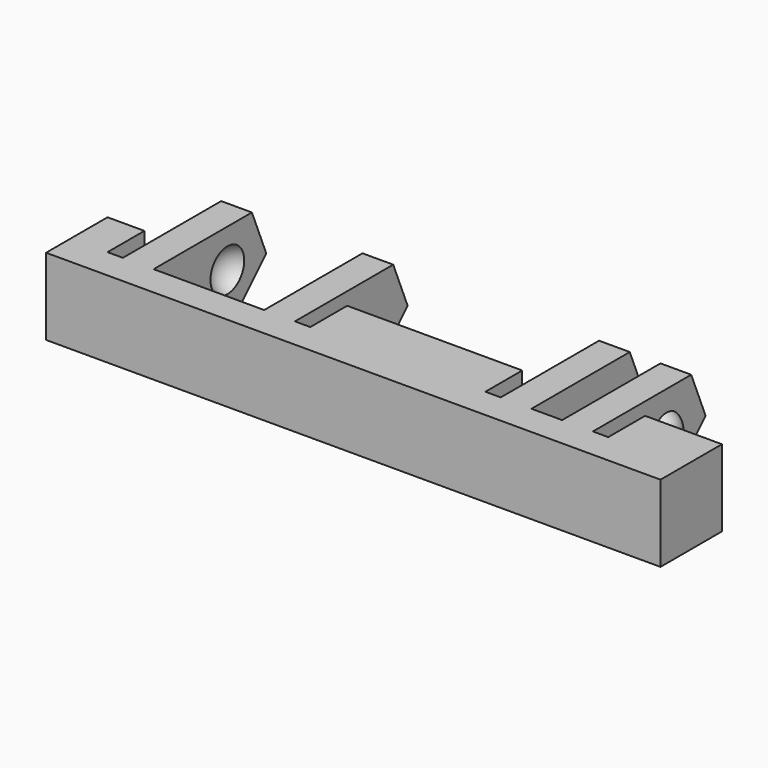
from build123d import *

# Parameters (mm, degrees)
BOX043_W               = 12
BOX043_H               = 44
BOX043_DEPTH           = 10
BOX045_W               = 4
BOX045_H               = 1
BOX045_DEPTH           = 7
BOX047_W               = 4
BOX047_H               = 1
BOX047_DEPTH           = 7
BOX041_W               = 4
BOX041_H               = 2
BOX041_DEPTH           = 7
BOX048_W               = 4
BOX048_H               = 1
BOX048_DEPTH           = 7
BOX044_W               = 4
BOX044_H               = 1
BOX044_DEPTH           = 7
BOX052_W               = 4
BOX052_H               = 7.2
BOX052_DEPTH           = 7
BOX050_W               = 13
BOX050_H               = 40
BOX050_DEPTH           = 10
BOX050_PLACEMENT_ANGLE = 45
BOX040_W               = 10
BOX040_H               = 2
BOX040_DEPTH           = 7
BOX042_W               = 10
BOX042_H               = 2
BOX042_DEPTH           = 7
BOX049_W               = 10
BOX049_H               = 2
BOX049_DEPTH           = 7
BOX051_W               = 10
BOX051_H               = 2
BOX051_DEPTH           = 7
BOX046_W               = 5
BOX046_H               = 40
BOX046_DEPTH           = 7
CHAMFER004_SIZE        = 4
CUT016_PLACEMENT_ANGLE = 180
CUT015_PLACEMENT_ANGLE = 90


with BuildPart() as cube043:
    # Box043 → Box043 (new body)
    with BuildSketch(Plane(origin=(-11, -2, -12), x_dir=(1, 0, 0), z_dir=(0, 0, 1))):
        with Locations((6, 22)):
            Rectangle(BOX043_W, BOX043_H)
    extrude(amount=BOX043_DEPTH)


with BuildPart() as cube045:
    # Box045 → Box045 (new body)
    with BuildSketch(Plane(origin=(-1, 12, 0), x_dir=(1, 0, 0), z_dir=(0, 0, 1))):
        with Locations((2, 0.5)):
            Rectangle(BOX045_W, BOX045_H)
    extrude(amount=BOX045_DEPTH)


with BuildPart() as cube047:
    # Box047 → Box047 (new body)
    with BuildSketch(Plane(origin=(-1, 36.6, 0), x_dir=(1, 0, 0), z_dir=(0, 0, 1))):
        with Locations((2, 0.5)):
            Rectangle(BOX047_W, BOX047_H)
    extrude(amount=BOX047_DEPTH)


with BuildPart() as cube041:
    # Box041 → Box041 (new body)
    with BuildSketch(Plane(origin=(-1, 8, 0), x_dir=(1, 0, 0), z_dir=(0, 0, 1))):
        with Locations((2, 1)):
            Rectangle(BOX041_W, BOX041_H)
    extrude(amount=BOX041_DEPTH)


with BuildPart() as cube048:
    # Box048 → Box048 (new body)
    with BuildSketch(Plane(origin=(-1, 24.4, 0), x_dir=(1, 0, 0), z_dir=(0, 0, 1))):
        with Locations((2, 0.5)):
            Rectangle(BOX048_W, BOX048_H)
    extrude(amount=BOX048_DEPTH)


with BuildPart() as cube044:
    # Box044 → Box044 (new body)
    with BuildSketch(Plane(origin=(-1, 5, 0), x_dir=(1, 0, 0), z_dir=(0, 0, 1))):
        with Locations((2, 0.5)):
            Rectangle(BOX044_W, BOX044_H)
    extrude(amount=BOX044_DEPTH)


with BuildPart() as fusion014:
    # Box052 → Box052 (new body)
    with BuildSketch(Plane(origin=(-1, 27.4, 0), x_dir=(1, 0, 0), z_dir=(0, 0, 1))):
        with Locations((2, 3.6)):
            Rectangle(BOX052_W, BOX052_H)
    extrude(amount=BOX052_DEPTH)

    # Fusion014: union Cube045, Cube047, Cube041, Cube048, Cube044
    add(cube045.part)
    add(cube047.part)
    add(cube041.part)
    add(cube048.part)
    add(cube044.part)


with BuildPart() as sphere021:
    # Sphere021 → Sphere021 (revolve)
    with BuildSketch(Plane(origin=(-3, 28, 2.5), x_dir=(1, 0, 0), z_dir=(0, -1, 0))):
        with BuildLine():
            ThreePointArc((0, -1.5), (1.5, 0), (0, 1.5))
            Line((0, 1.5), (0, -1.5))
        make_face()
    revolve(axis=Axis((-3, 28, 2.5), (0, 0, 1)))


with BuildPart() as fusion016:
    # Sphere023 → Sphere023 (revolve)
    with BuildSketch(Plane(origin=(-3, 34, 2.5), x_dir=(1, 0, 0), z_dir=(0, -1, 0))):
        with BuildLine():
            ThreePointArc((0, -1.5), (1.5, 0), (0, 1.5))
            Line((0, 1.5), (0, -1.5))
        make_face()
    revolve(axis=Axis((-3, 34, 2.5), (0, 0, 1)))

    # Fusion016: union Sphere021
    add(sphere021.part)


with BuildPart() as sphere020:
    # Sphere020 → Sphere020 (revolve)
    with BuildSketch(Plane(origin=(-3, 11.5, 2.5), x_dir=(1, 0, 0), z_dir=(0, -1, 0))):
        with BuildLine():
            ThreePointArc((0, -1.25), (1.25, 0), (0, 1.25))
            Line((0, 1.25), (0, -1.25))
        make_face()
    revolve(axis=Axis((-3, 11.5, 2.5), (0, 0, 1)))


with BuildPart() as cube050:
    # Box050 → Box050 (new body)
    with BuildSketch(Plane.XY):
        with Locations((6.5, 20)):
            Rectangle(BOX050_W, BOX050_H)
    extrude(amount=BOX050_DEPTH)


with BuildPart() as cube050_1:
    # Box050 placement: moved
    add(cube050.part.moved(Location((-10.19, 0, -1.19))).rotate(Axis((-10.19, 0, -1.19), (0, -1, 0)), BOX050_PLACEMENT_ANGLE))


with BuildPart() as cube040:
    # Box040 → Box040 (new body)
    with BuildSketch(Plane(origin=(-10, 6, 0), x_dir=(1, 0, 0), z_dir=(0, 0, 1))):
        with Locations((5, 1)):
            Rectangle(BOX040_W, BOX040_H)
    extrude(amount=BOX040_DEPTH)


with BuildPart() as cube042:
    # Box042 → Box042 (new body)
    with BuildSketch(Plane(origin=(-10, 10, 0), x_dir=(1, 0, 0), z_dir=(0, 0, 1))):
        with Locations((5, 1)):
            Rectangle(BOX042_W, BOX042_H)
    extrude(amount=BOX042_DEPTH)


with BuildPart() as cube049:
    # Box049 → Box049 (new body)
    with BuildSketch(Plane(origin=(-10, 25.4, 0), x_dir=(1, 0, 0), z_dir=(0, 0, 1))):
        with Locations((5, 1)):
            Rectangle(BOX049_W, BOX049_H)
    extrude(amount=BOX049_DEPTH)


with BuildPart() as cube051:
    # Box051 → Box051 (new body)
    with BuildSketch(Plane(origin=(-10, 34.6, 0), x_dir=(1, 0, 0), z_dir=(0, 0, 1))):
        with Locations((5, 1)):
            Rectangle(BOX051_W, BOX051_H)
    extrude(amount=BOX051_DEPTH)


with BuildPart() as cut013:
    # Box046 → Box046 (new body)
    with BuildSketch(Plane.XY):
        with Locations((2.5, 20)):
            Rectangle(BOX046_W, BOX046_H)
    extrude(amount=BOX046_DEPTH)

    # Fusion015: union Cube040, Cube042, Cube049, Cube051
    add(cube040.part)
    add(cube042.part)
    add(cube049.part)
    add(cube051.part)

    # Cut013: cut Cube050
    add(cube050_1.part, mode=Mode.SUBTRACT)


with BuildPart() as cut015:
    # Sphere022 → Sphere022 (revolve)
    with BuildSketch(Plane(origin=(-3, 6.5, 2.5), x_dir=(1, 0, 0), z_dir=(0, -1, 0))):
        with BuildLine():
            ThreePointArc((0, -1.25), (1.25, 0), (0, 1.25))
            Line((0, 1.25), (0, -1.25))
        make_face()
    revolve(axis=Axis((-3, 6.5, 2.5), (0, 0, 1)))

    # Fusion013: union Sphere020, Cut013
    add(sphere020.part)
    add(cut013.part)

    # Cut014: cut Fusion016
    add(fusion016.part, mode=Mode.SUBTRACT)

    # Chamfer004
    chamfer004_edges = [cut015.edges().sort_by_distance(p)[0] for p in [
        (-9, 7, 0),
        (-9, 11, 0),
        (-9, 35.6, 0),
        (-9, 26.4, 0),
    ]]
    chamfer(chamfer004_edges, length=CHAMFER004_SIZE)

    # Cut016: cut Fusion014
    add(fusion014.part, mode=Mode.SUBTRACT)


with BuildPart() as cut015_1:
    # Cut016 placement: moved
    add(cut015.part.moved(Location((-5, 40, 3))).rotate(Axis((-5, 40, 3), (1, 0, 0)), CUT016_PLACEMENT_ANGLE))

    # Cut015: cut Cube043
    add(cube043.part, mode=Mode.SUBTRACT)


with BuildPart() as cut015_2:
    # Cut015 placement: moved
    add(cut015_1.part.moved(Location((0, 40, 0))).rotate(Axis((0, 40, 0), (0, 0, -1)), CUT015_PLACEMENT_ANGLE))


solid = cut015_2.part
